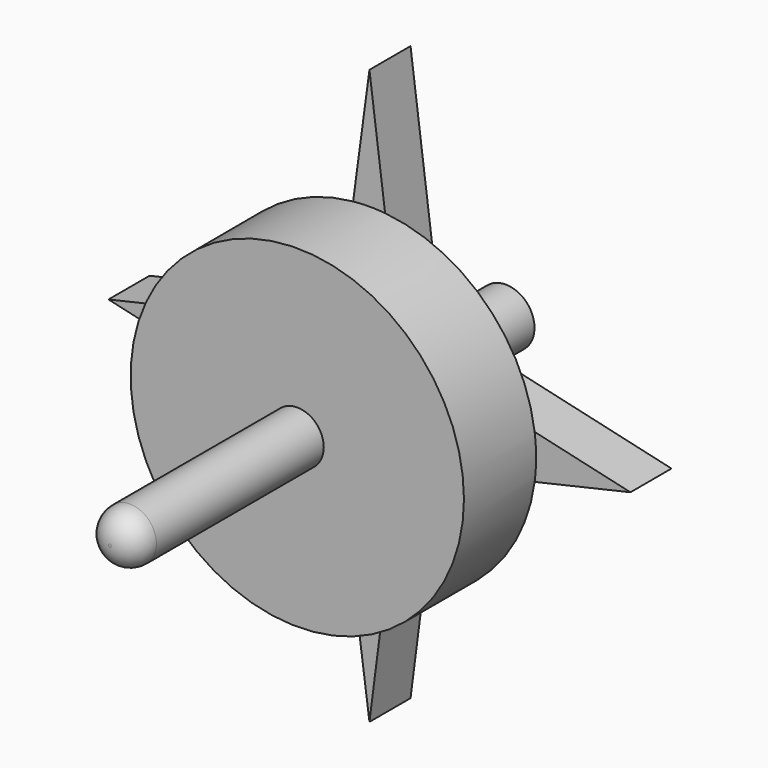
from build123d import *

# Parameters (mm, degrees)
F0_R     = 33.795708
F1_DEPTH = 18.288
F2_R     = 5.368013
F3_DEPTH = 47.498
F4_R     = 5.08
F5_R     = 5.839733
F6_DEPTH = 34.544
F7_W     = 12.265376
F7_H     = 21.514286
F8_DEPTH = 10.414


with BuildPart() as f1:
    # F0 (on Front) → F1 (new body)
    with BuildSketch(Plane.XZ):
        Circle(F0_R)
    extrude(amount=F1_DEPTH)

    # F2 (on face) → F3 (join)
    with BuildSketch(Plane.XZ.offset(18.288)):
        Circle(F2_R)
    extrude(amount=F3_DEPTH)

    # F4
    f4_edges = [f1.edges().sort_by_distance(p)[0] for p in [
        (-5.368013, -65.786, 0),
    ]]
    fillet(f4_edges, radius=F4_R)

    # F5 (on face) → F6 (join)
    with BuildSketch(Plane(origin=(0, 0, 0), x_dir=(-1, 0, 0), z_dir=(0, 1, 0))):
        Circle(F5_R)
    extrude(amount=F6_DEPTH)

    # F7 (on face) → F8 (join)
    with BuildSketch(Plane(origin=(0, 0, 0), x_dir=(-1, 0, 0), z_dir=(0, 1, 0))):
        Polygon((-52.923243, 0), (-6.132688, -10.757143), (-6.132688, 10.757143), align=None)
        Polygon((-52.923243, 0), (-6.132688, -10.757143), (-6.132688, 10.757143), align=None)
        Polygon((6.132688, -10.757143), (-6.132688, -10.757143), (0, -58.2073), (6.389142, -10.757143), align=None)
        Polygon((6.132688, -10.757143), (-6.132688, -10.757143), (0, -58.2073), (6.389142, -10.757143), align=None)
        Rectangle(F7_W, F7_H)
        Polygon((6.132688, 10.757143), (6.132688, -10.757143), (52.923243, 0), align=None)
        Polygon((6.132688, 10.757143), (6.132688, -10.757143), (52.923243, 0), align=None)
        Polygon((0, 58.2073), (-6.132688, 10.757143), (6.132688, 10.757143), (6.389142, 10.757143), align=None)
        Polygon((0, 58.2073), (-6.132688, 10.757143), (6.132688, 10.757143), (6.389142, 10.757143), align=None)
    extrude(amount=F8_DEPTH)


solid = f1.part
